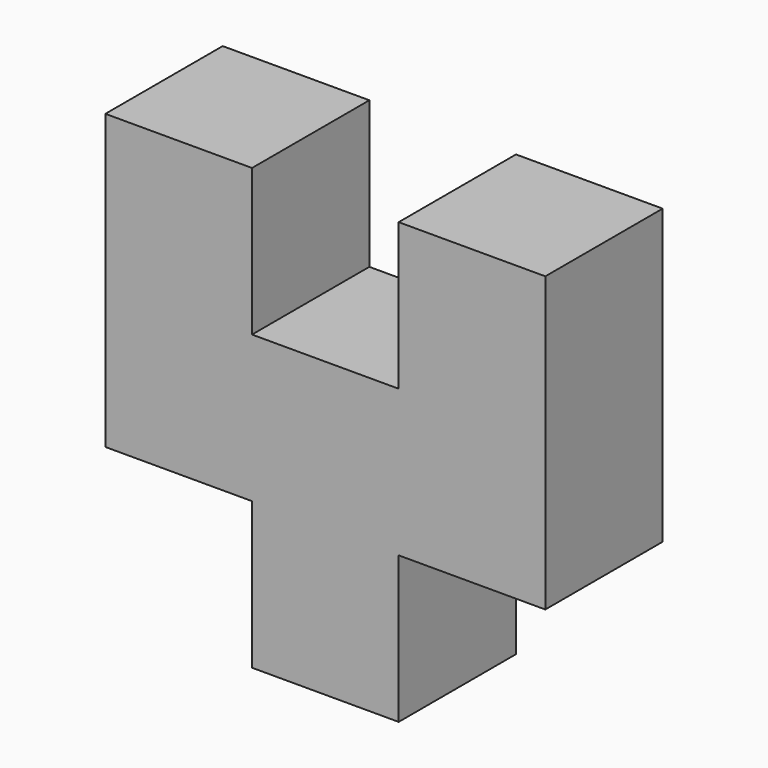
from build123d import *

# Parameters (mm, degrees)
F0_W     = 19.05
F0_H     = 19.05
F1_DEPTH = 9.525


with BuildPart() as f1:
    # F0 (on Front) → F1 (new body, symmetric)
    with BuildSketch(Plane.XZ):
        Rectangle(F0_W, F0_H)
        with Locations((-19.05, 0)):
            Rectangle(F0_W, F0_H)
        with Locations((-19.05, 19.05)):
            Rectangle(F0_W, F0_H)
        with Locations((19.05, 0)):
            Rectangle(F0_W, F0_H)
        with Locations((19.05, 19.05)):
            Rectangle(F0_W, F0_H)
        with Locations((0, -19.05)):
            Rectangle(F0_W, F0_H)
    extrude(amount=F1_DEPTH, both=True)


solid = f1.part
